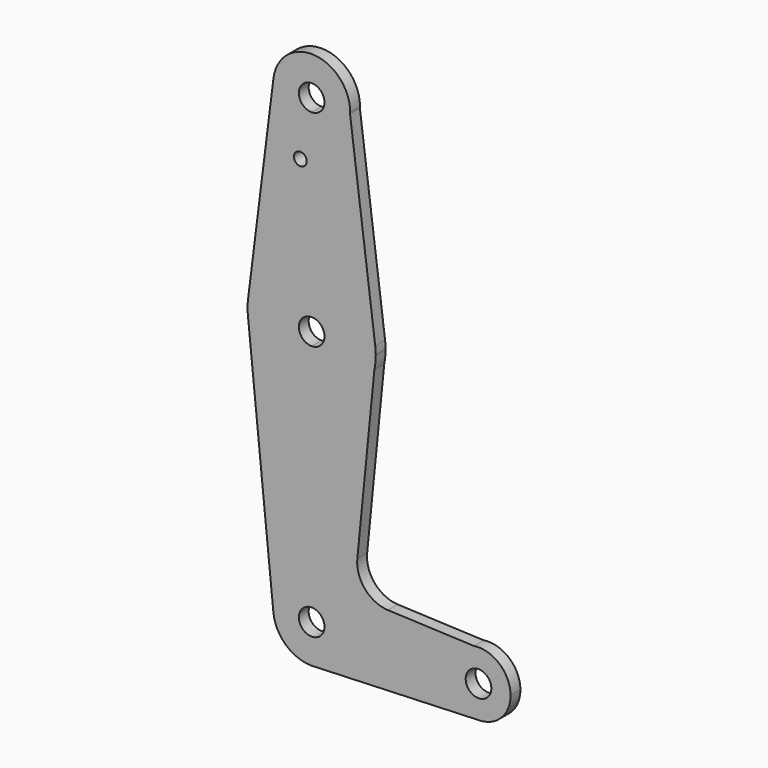
from build123d import *

# Parameters (mm, degrees)
F0_R     = 1.5875
F0_R_2   = 3.175
F1_DEPTH = 3.048
F2_DEPTH = 3.048


with BuildPart() as f1:
    # F0 (on Front) → F1 (new body)
    with BuildSketch(Plane.XZ):
        with BuildLine():
            ThreePointArc((9.525, 0), (6.7351920908, 6.7351920908), (0, 9.525))
            ThreePointArc((0, 9.525), (-7.0643264097, 6.3891249305), (-9.477136794, -0.9536787659))
            ThreePointArc((-9.477136794, -0.9536787659), (-6.3891249305, -7.0643264097), (0, -9.525))
            Line((0, -9.525), (0.7281837241, -9.497124484))
            ThreePointArc((0.7281837241, -9.497124484), (6.9879029391, -6.4726221514), (9.525, 0))
        make_face()
        with BuildLine():
            ThreePointArc((3.175, 0), (-2.2450640303, -2.2450640303), (0, 3.175))
            ThreePointArc((0, 3.175), (2.2450640303, 2.2450640303), (3.175, 0))
        make_face(mode=Mode.SUBTRACT)
        with BuildLine():
            ThreePointArc((-9.477136794, -0.9536787659), (-7.0643264097, 6.3891249305), (0, 9.525))
            Line((0, 9.525), (0, 47.4302957992))
            ThreePointArc((0, 47.4302957992), (-10.4211916268, 51.3297210706), (-15.7228042944, 61.1123411436))
            Line((-15.7228042944, 61.1123411436), (-9.477136794, -0.9536787659))
        make_face()
        with BuildLine():
            Line((0, 47.4302957992), (0, 9.525))
            ThreePointArc((0, 9.525), (6.7351920908, 6.7351920908), (9.525, 0))
            ThreePointArc((9.525, 0), (6.9879029391, -6.4726221514), (0.7281837241, -9.497124484))
            Line((0.7281837241, -9.497124484), (41.6215456739, -7.9316904748))
            ThreePointArc((41.6215456739, -7.9316904748), (33.4142829881, -0.7324821264), (40.1587287359, 7.8524007029))
            Line((40.1587287359, 7.8524007029), (18.8869592288, 8.7383636765))
            ThreePointArc((18.8869592288, 8.7383636765), (13.2151398254, 11.468827525), (11.3065115776, 17.4673362051))
            Line((11.3065115776, 17.4673362051), (15.5332675079, 60.0291356187))
            ThreePointArc((15.5332675079, 60.0291356187), (10.000164552, 50.9759675963), (0, 47.4302957992))
        make_face()
        with BuildLine():
            ThreePointArc((-15.7228042944, 61.1123411436), (-10.4211916268, 51.3297210706), (0, 47.4302957992))
            Line((0, 47.4302957992), (0, 60.1302957992))
            ThreePointArc((0, 60.1302957992), (-3.175, 63.3052957992), (0, 66.4802957992))
            Line((0, 66.4802957992), (0, 79.1802957992))
            ThreePointArc((0, 79.1802957992), (-10.3263998893, 75.3627039089), (-15.6862510577, 65.7460237143))
            ThreePointArc((-15.6862510577, 65.7460237143), (-15.8745060732, 63.4305233194), (-15.7228042944, 61.1123411436))
        make_face()
        with BuildLine():
            Line((0, 60.1302957992), (0, 47.4302957992))
            ThreePointArc((0, 47.4302957992), (10.000164552, 50.9759675963), (15.5332675079, 60.0291356187))
            Line((15.5332675079, 60.0291356187), (15.8742224081, 63.4624197526))
            ThreePointArc((15.8742224081, 63.4624197526), (15.8373667054, 64.3977429786), (15.7454489057, 65.3292680712))
            ThreePointArc((15.7454489057, 65.3292680712), (10.4853484726, 75.2247375818), (0, 79.1802957992))
            Line((0, 79.1802957992), (0, 66.4802957992))
            ThreePointArc((0, 66.4802957992), (2.2450640303, 65.5503598294), (3.175, 63.3052957992))
            ThreePointArc((3.175, 63.3052957992), (2.2450640303, 61.0602317689), (0, 60.1302957992))
        make_face()
        with BuildLine():
            Line((15.8742224081, 63.4624197526), (15.5332675079, 60.0291356187))
            ThreePointArc((15.5332675079, 60.0291356187), (15.7893357474, 61.6583283872), (15.875, 63.3052957992))
            ThreePointArc((15.875, 63.3052957992), (15.8748056008, 63.3838587379), (15.8742224081, 63.4624197526))
        make_face()
        with BuildLine():
            ThreePointArc((0, -9.525), (0.3643585392, -9.5180285698), (0.7281837241, -9.497124484))
            Line((0.7281837241, -9.497124484), (0, -9.525))
        make_face()
        with BuildLine():
            Line((-9.451028061, 115.4847757551), (-15.6862510577, 65.7460237143))
            ThreePointArc((-15.6862510577, 65.7460237143), (-10.3263998893, 75.3627039089), (0, 79.1802957992))
            Line((0, 79.1802957992), (0, 104.775))
            ThreePointArc((0, 104.775), (-7.1417999856, 107.9975942715), (-9.451028061, 115.4847757551))
        make_face()
        with Locations((-2.8155730106, 100.0202074647)):
            Circle(F0_R, mode=Mode.SUBTRACT)
        with BuildLine():
            ThreePointArc((40.1587287359, 7.8524007029), (33.4142829881, -0.7324821264), (41.6215456739, -7.9316904748))
            ThreePointArc((41.6215456739, -7.9316904748), (47.0369163631, -5.5042631809), (49.2554135579, 0))
            ThreePointArc((49.2554135579, 0), (46.5045732116, 6.0085329231), (40.1587287359, 7.8524007029))
        make_face()
        with Locations((41.3179135579, 0)):
            Circle(F0_R_2, mode=Mode.SUBTRACT)
        with BuildLine():
            Line((0, 104.775), (0, 79.1802957992))
            ThreePointArc((0, 79.1802957992), (10.4853484726, 75.2247375818), (15.7454489057, 65.3292680712))
            Line((15.7454489057, 65.3292680712), (9.5127258391, 113.816603568))
            ThreePointArc((9.5127258391, 113.816603568), (6.5620604228, 107.3960165116), (0, 104.775))
        make_face()
        with BuildLine():
            ThreePointArc((9.525, 114.3), (0.5935413713, 123.8064890281), (-9.451028061, 115.4847757551))
            ThreePointArc((-9.451028061, 115.4847757551), (-7.1417999856, 107.9975942715), (0, 104.775))
            ThreePointArc((0, 104.775), (6.5620604228, 107.3960165116), (9.5127258391, 113.816603568))
            ThreePointArc((9.5127258391, 113.816603568), (9.5219309653, 114.0582238817), (9.525, 114.3))
        make_face()
        with BuildLine():
            ThreePointArc((3.175, 114.3), (2.2450640303, 112.0549359697), (0, 111.125))
            ThreePointArc((0, 111.125), (-2.2450640303, 116.5450640303), (3.175, 114.3))
        make_face(mode=Mode.SUBTRACT)
    extrude(amount=F1_DEPTH)

    # F0 (on Front) → F2 (join)
    with BuildSketch(Plane.XZ):
        with BuildLine():
            ThreePointArc((9.525, 0), (6.7351920908, 6.7351920908), (0, 9.525))
            ThreePointArc((0, 9.525), (-7.0643264097, 6.3891249305), (-9.477136794, -0.9536787659))
            ThreePointArc((-9.477136794, -0.9536787659), (-6.3891249305, -7.0643264097), (0, -9.525))
            Line((0, -9.525), (0.7281837241, -9.497124484))
            ThreePointArc((0.7281837241, -9.497124484), (6.9879029391, -6.4726221514), (9.525, 0))
        make_face()
        with BuildLine():
            ThreePointArc((3.175, 0), (-2.2450640303, -2.2450640303), (0, 3.175))
            ThreePointArc((0, 3.175), (2.2450640303, 2.2450640303), (3.175, 0))
        make_face(mode=Mode.SUBTRACT)
        with BuildLine():
            ThreePointArc((-9.477136794, -0.9536787659), (-7.0643264097, 6.3891249305), (0, 9.525))
            Line((0, 9.525), (0, 47.4302957992))
            ThreePointArc((0, 47.4302957992), (-10.4211916268, 51.3297210706), (-15.7228042944, 61.1123411436))
            Line((-15.7228042944, 61.1123411436), (-9.477136794, -0.9536787659))
        make_face()
        with BuildLine():
            Line((0, 47.4302957992), (0, 9.525))
            ThreePointArc((0, 9.525), (6.7351920908, 6.7351920908), (9.525, 0))
            ThreePointArc((9.525, 0), (6.9879029391, -6.4726221514), (0.7281837241, -9.497124484))
            Line((0.7281837241, -9.497124484), (41.6215456739, -7.9316904748))
            ThreePointArc((41.6215456739, -7.9316904748), (33.4142829881, -0.7324821264), (40.1587287359, 7.8524007029))
            Line((40.1587287359, 7.8524007029), (18.8869592288, 8.7383636765))
            ThreePointArc((18.8869592288, 8.7383636765), (13.2151398254, 11.468827525), (11.3065115776, 17.4673362051))
            Line((11.3065115776, 17.4673362051), (15.5332675079, 60.0291356187))
            ThreePointArc((15.5332675079, 60.0291356187), (10.000164552, 50.9759675963), (0, 47.4302957992))
        make_face()
        with BuildLine():
            ThreePointArc((-15.7228042944, 61.1123411436), (-10.4211916268, 51.3297210706), (0, 47.4302957992))
            Line((0, 47.4302957992), (0, 60.1302957992))
            ThreePointArc((0, 60.1302957992), (-3.175, 63.3052957992), (0, 66.4802957992))
            Line((0, 66.4802957992), (0, 79.1802957992))
            ThreePointArc((0, 79.1802957992), (-10.3263998893, 75.3627039089), (-15.6862510577, 65.7460237143))
            ThreePointArc((-15.6862510577, 65.7460237143), (-15.8745060732, 63.4305233194), (-15.7228042944, 61.1123411436))
        make_face()
        with BuildLine():
            Line((0, 60.1302957992), (0, 47.4302957992))
            ThreePointArc((0, 47.4302957992), (10.000164552, 50.9759675963), (15.5332675079, 60.0291356187))
            Line((15.5332675079, 60.0291356187), (15.8742224081, 63.4624197526))
            ThreePointArc((15.8742224081, 63.4624197526), (15.8373667054, 64.3977429786), (15.7454489057, 65.3292680712))
            ThreePointArc((15.7454489057, 65.3292680712), (10.4853484726, 75.2247375818), (0, 79.1802957992))
            Line((0, 79.1802957992), (0, 66.4802957992))
            ThreePointArc((0, 66.4802957992), (2.2450640303, 65.5503598294), (3.175, 63.3052957992))
            ThreePointArc((3.175, 63.3052957992), (2.2450640303, 61.0602317689), (0, 60.1302957992))
        make_face()
        with BuildLine():
            Line((15.8742224081, 63.4624197526), (15.5332675079, 60.0291356187))
            ThreePointArc((15.5332675079, 60.0291356187), (15.7893357474, 61.6583283872), (15.875, 63.3052957992))
            ThreePointArc((15.875, 63.3052957992), (15.8748056008, 63.3838587379), (15.8742224081, 63.4624197526))
        make_face()
        with BuildLine():
            ThreePointArc((0, -9.525), (0.3643585392, -9.5180285698), (0.7281837241, -9.497124484))
            Line((0.7281837241, -9.497124484), (0, -9.525))
        make_face()
        with BuildLine():
            Line((-9.451028061, 115.4847757551), (-15.6862510577, 65.7460237143))
            ThreePointArc((-15.6862510577, 65.7460237143), (-10.3263998893, 75.3627039089), (0, 79.1802957992))
            Line((0, 79.1802957992), (0, 104.775))
            ThreePointArc((0, 104.775), (-7.1417999856, 107.9975942715), (-9.451028061, 115.4847757551))
        make_face()
        with Locations((-2.8155730106, 100.0202074647)):
            Circle(F0_R, mode=Mode.SUBTRACT)
        with BuildLine():
            ThreePointArc((40.1587287359, 7.8524007029), (33.4142829881, -0.7324821264), (41.6215456739, -7.9316904748))
            ThreePointArc((41.6215456739, -7.9316904748), (47.0369163631, -5.5042631809), (49.2554135579, 0))
            ThreePointArc((49.2554135579, 0), (46.5045732116, 6.0085329231), (40.1587287359, 7.8524007029))
        make_face()
        with Locations((41.3179135579, 0)):
            Circle(F0_R_2, mode=Mode.SUBTRACT)
        with BuildLine():
            Line((0, 104.775), (0, 79.1802957992))
            ThreePointArc((0, 79.1802957992), (10.4853484726, 75.2247375818), (15.7454489057, 65.3292680712))
            Line((15.7454489057, 65.3292680712), (9.5127258391, 113.816603568))
            ThreePointArc((9.5127258391, 113.816603568), (6.5620604228, 107.3960165116), (0, 104.775))
        make_face()
        with BuildLine():
            ThreePointArc((9.525, 114.3), (0.5935413713, 123.8064890281), (-9.451028061, 115.4847757551))
            ThreePointArc((-9.451028061, 115.4847757551), (-7.1417999856, 107.9975942715), (0, 104.775))
            ThreePointArc((0, 104.775), (6.5620604228, 107.3960165116), (9.5127258391, 113.816603568))
            ThreePointArc((9.5127258391, 113.816603568), (9.5219309653, 114.0582238817), (9.525, 114.3))
        make_face()
        with BuildLine():
            ThreePointArc((3.175, 114.3), (2.2450640303, 112.0549359697), (0, 111.125))
            ThreePointArc((0, 111.125), (-2.2450640303, 116.5450640303), (3.175, 114.3))
        make_face(mode=Mode.SUBTRACT)
    extrude(amount=F2_DEPTH)


solid = f1.part
